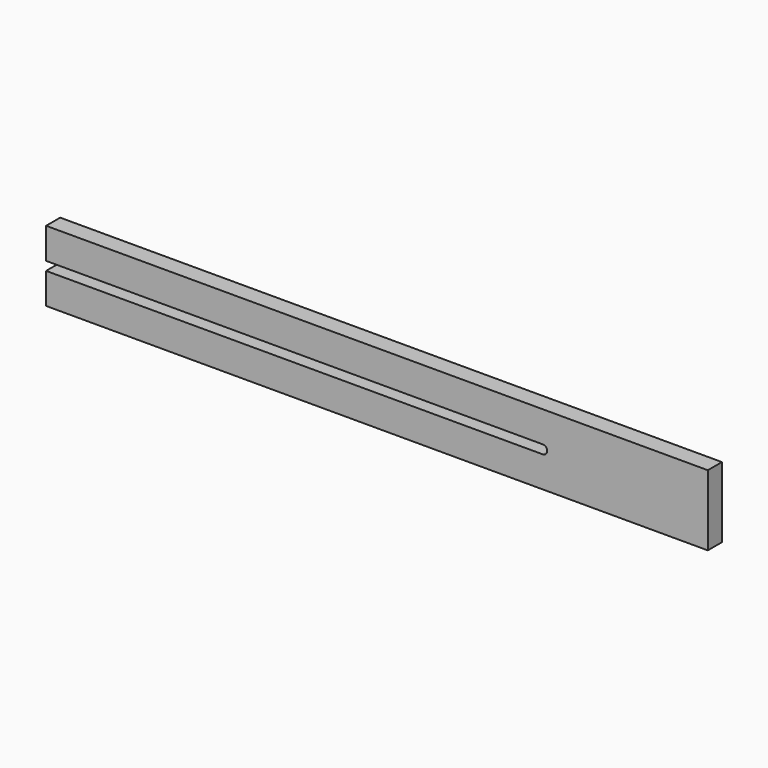
from build123d import *

# Parameters (mm, degrees)
F0_W     = 750
F0_H     = 80
F1_DEPTH = 20
F4_DEPTH = 20


with BuildPart() as f1:
    # F0 (on Front) → F1 (new body)
    with BuildSketch(Plane.XZ):
        Rectangle(F0_W, F0_H)
    extrude(amount=F1_DEPTH)

    # F3 (on face) → F4 (cut, through all)
    with BuildSketch(Plane.XZ.offset(20)):
        with BuildLine():
            Line((188, 5), (-375, 5))
            Line((-375, 5), (-375, -5))
            Line((-375, -5), (188, -5))
            ThreePointArc((188, -5), (193, 0), (188, 5))
        make_face()
    extrude(amount=-F4_DEPTH, mode=Mode.SUBTRACT)


solid = f1.part
